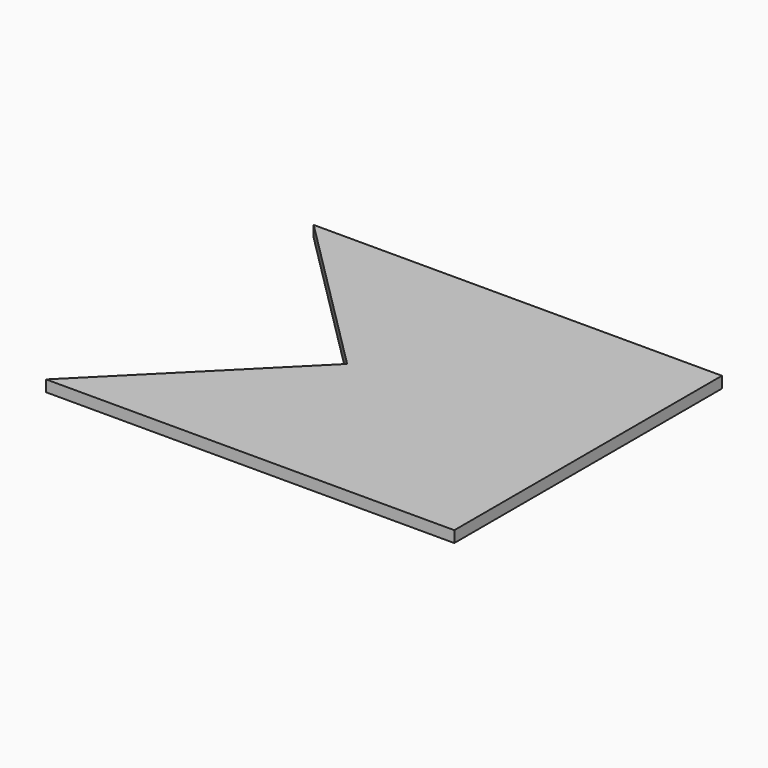
from build123d import *

# Parameters (mm, degrees)
F0_W     = 72
F0_H     = 59
F1_DEPTH = 2
F3_DEPTH = 5


with BuildPart() as f1:
    # F0 (on Top) → F1 (new body)
    with BuildSketch(Plane.XY):
        with Locations((36, 29.5)):
            Rectangle(F0_W, F0_H)
    extrude(amount=F1_DEPTH)

    # F2 (on Top) → F3 (cut)
    with BuildSketch(Plane.XY):
        Polygon((0, 59), (0, 0), (29.5, 29.5), align=None)
    extrude(amount=F3_DEPTH, mode=Mode.SUBTRACT)


solid = f1.part
